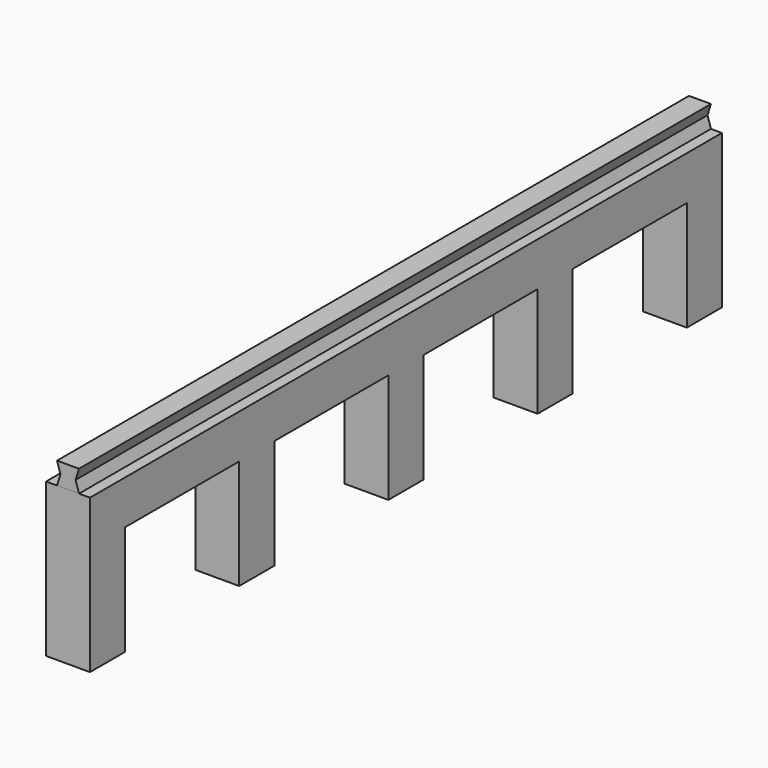
from build123d import *

# Parameters (mm, degrees)
F1_DEPTH = 50.8
F3_DEPTH = 914.4


with BuildPart() as f1:
    # F0 (on Right) → F1 (new body)
    with BuildSketch(Plane.YZ):
        Polygon((914.4, 0), (0, 0), (0, -177.8), (50.8, -177.8), (50.8, -50.8), (215.9, -50.8), (215.9, -177.8), (266.7, -177.8), (266.7, -50.8), (431.8, -50.8), (431.8, -177.8), (482.6, -177.8), (482.6, -50.8), (647.7, -50.8), (647.7, -177.8), (698.5, -177.8), (698.5, -50.8), (863.6, -50.8), (863.6, -177.8), (914.4, -177.8), align=None)
    extrude(amount=F1_DEPTH)


with BuildPart() as f3:
    # F2 (on Front) → F3 (new body)
    with BuildSketch(Plane.XZ):
        Polygon((16.63327, 12.7), (12.7, 0), (38.1, 0), (34.16673, 12.7), (38.1, 25.4), (12.7, 25.4), align=None)
    extrude(amount=-F3_DEPTH)


solid = Compound([f1.part, f3.part])
